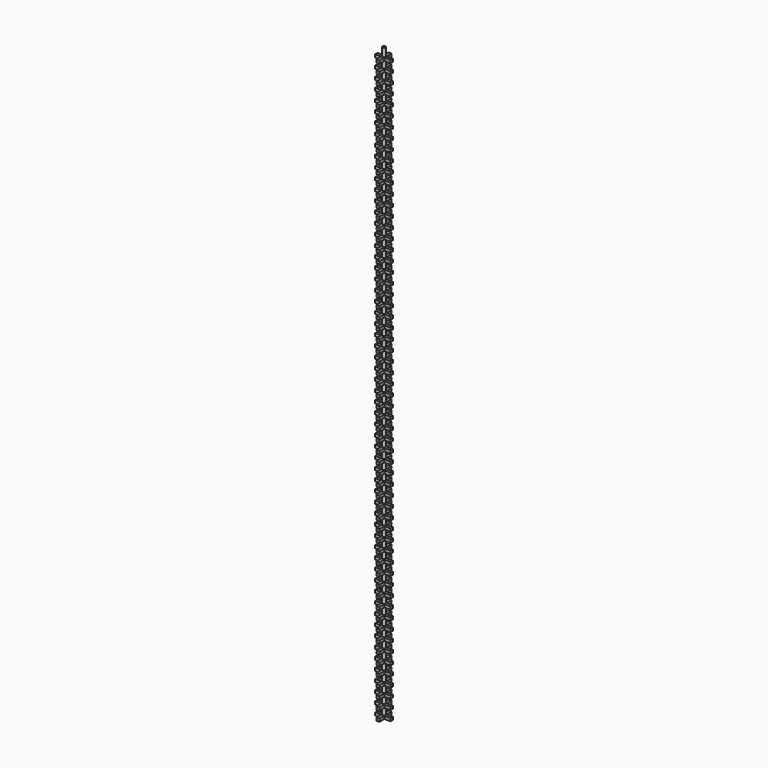
from build123d import *

# Parameters (mm, degrees)
F0_R     = 2.5
F1_DEPTH = 1000
F2_W     = 5
F2_H     = 5
F4_DEPTH = 13
F3_W     = 5
F3_H     = 5
F5_DEPTH = 13


with BuildPart() as f1:
    # F0 (on Top) → F1 (new body)
    with BuildSketch(Plane.XY):
        Circle(F0_R)
    extrude(amount=F1_DEPTH)

    # F2 (on Front) → F4 (join, symmetric)
    with BuildSketch(Plane.XZ):
        Rectangle(F2_W, F2_H)
        with Locations((0, 16.666667)):
            Rectangle(F2_W, F2_H)
        with Locations((0, 33.333333)):
            Rectangle(F2_W, F2_H)
        with Locations((0, 50)):
            Rectangle(F2_W, F2_H)
        with Locations((0, 66.666667)):
            Rectangle(F2_W, F2_H)
        with Locations((0, 83.333333)):
            Rectangle(F2_W, F2_H)
        with Locations((0, 100)):
            Rectangle(F2_W, F2_H)
        with Locations((0, 116.666667)):
            Rectangle(F2_W, F2_H)
        with Locations((0, 133.333333)):
            Rectangle(F2_W, F2_H)
        with Locations((0, 150)):
            Rectangle(F2_W, F2_H)
        with Locations((0, 166.666667)):
            Rectangle(F2_W, F2_H)
        with Locations((0, 183.333333)):
            Rectangle(F2_W, F2_H)
        with Locations((0, 200)):
            Rectangle(F2_W, F2_H)
        with Locations((0, 216.666667)):
            Rectangle(F2_W, F2_H)
        with Locations((0, 233.333333)):
            Rectangle(F2_W, F2_H)
        with Locations((0, 250)):
            Rectangle(F2_W, F2_H)
        with Locations((0, 266.666667)):
            Rectangle(F2_W, F2_H)
        with Locations((0, 283.333333)):
            Rectangle(F2_W, F2_H)
        with Locations((0, 300)):
            Rectangle(F2_W, F2_H)
        with Locations((0, 316.666667)):
            Rectangle(F2_W, F2_H)
        with Locations((0, 333.333333)):
            Rectangle(F2_W, F2_H)
        with Locations((0, 350)):
            Rectangle(F2_W, F2_H)
        with Locations((0, 366.666667)):
            Rectangle(F2_W, F2_H)
        with Locations((0, 383.333333)):
            Rectangle(F2_W, F2_H)
        with Locations((0, 400)):
            Rectangle(F2_W, F2_H)
        with Locations((0, 416.666667)):
            Rectangle(F2_W, F2_H)
        with Locations((0, 433.333333)):
            Rectangle(F2_W, F2_H)
        with Locations((0, 450)):
            Rectangle(F2_W, F2_H)
        with Locations((0, 466.666667)):
            Rectangle(F2_W, F2_H)
        with Locations((0, 483.333333)):
            Rectangle(F2_W, F2_H)
        with Locations((0, 500)):
            Rectangle(F2_W, F2_H)
        with Locations((0, 516.666667)):
            Rectangle(F2_W, F2_H)
        with Locations((0, 533.333333)):
            Rectangle(F2_W, F2_H)
        with Locations((0, 550)):
            Rectangle(F2_W, F2_H)
        with Locations((0, 566.666667)):
            Rectangle(F2_W, F2_H)
        with Locations((0, 583.333333)):
            Rectangle(F2_W, F2_H)
        with Locations((0, 600)):
            Rectangle(F2_W, F2_H)
        with Locations((0, 616.666667)):
            Rectangle(F2_W, F2_H)
        with Locations((0, 633.333333)):
            Rectangle(F2_W, F2_H)
        with Locations((0, 650)):
            Rectangle(F2_W, F2_H)
        with Locations((0, 666.666667)):
            Rectangle(F2_W, F2_H)
        with Locations((0, 683.333333)):
            Rectangle(F2_W, F2_H)
        with Locations((0, 700)):
            Rectangle(F2_W, F2_H)
        with Locations((0, 716.666667)):
            Rectangle(F2_W, F2_H)
        with Locations((0, 733.333333)):
            Rectangle(F2_W, F2_H)
        with Locations((0, 750)):
            Rectangle(F2_W, F2_H)
        with Locations((0, 766.666667)):
            Rectangle(F2_W, F2_H)
        with Locations((0, 783.333333)):
            Rectangle(F2_W, F2_H)
        with Locations((0, 800)):
            Rectangle(F2_W, F2_H)
        with Locations((0, 816.666667)):
            Rectangle(F2_W, F2_H)
        with Locations((0, 833.333333)):
            Rectangle(F2_W, F2_H)
        with Locations((0, 850)):
            Rectangle(F2_W, F2_H)
        with Locations((0, 866.666667)):
            Rectangle(F2_W, F2_H)
        with Locations((0, 883.333333)):
            Rectangle(F2_W, F2_H)
        with Locations((0, 900)):
            Rectangle(F2_W, F2_H)
        with Locations((0, 916.666667)):
            Rectangle(F2_W, F2_H)
        with Locations((0, 933.333333)):
            Rectangle(F2_W, F2_H)
        with Locations((0, 950)):
            Rectangle(F2_W, F2_H)
        with Locations((0, 966.666667)):
            Rectangle(F2_W, F2_H)
        with Locations((0, 983.333333)):
            Rectangle(F2_W, F2_H)
    extrude(amount=F4_DEPTH, both=True)

    # F3 (on Right) → F5 (join, symmetric)
    with BuildSketch(Plane.YZ):
        Rectangle(F3_W, F3_H)
        with Locations((0, 16.666667)):
            Rectangle(F3_W, F3_H)
        with Locations((0, 33.333333)):
            Rectangle(F3_W, F3_H)
        with Locations((0, 50)):
            Rectangle(F3_W, F3_H)
        with Locations((0, 66.666667)):
            Rectangle(F3_W, F3_H)
        with Locations((0, 83.333333)):
            Rectangle(F3_W, F3_H)
        with Locations((0, 100)):
            Rectangle(F3_W, F3_H)
        with Locations((0, 116.666667)):
            Rectangle(F3_W, F3_H)
        with Locations((0, 133.333333)):
            Rectangle(F3_W, F3_H)
        with Locations((0, 150)):
            Rectangle(F3_W, F3_H)
        with Locations((0, 166.666667)):
            Rectangle(F3_W, F3_H)
        with Locations((0, 183.333333)):
            Rectangle(F3_W, F3_H)
        with Locations((0, 200)):
            Rectangle(F3_W, F3_H)
        with Locations((0, 216.666667)):
            Rectangle(F3_W, F3_H)
        with Locations((0, 233.333333)):
            Rectangle(F3_W, F3_H)
        with Locations((0, 250)):
            Rectangle(F3_W, F3_H)
        with Locations((0, 266.666667)):
            Rectangle(F3_W, F3_H)
        with Locations((0, 283.333333)):
            Rectangle(F3_W, F3_H)
        with Locations((0, 300)):
            Rectangle(F3_W, F3_H)
        with Locations((0, 316.666667)):
            Rectangle(F3_W, F3_H)
        with Locations((0, 333.333333)):
            Rectangle(F3_W, F3_H)
        with Locations((0, 350)):
            Rectangle(F3_W, F3_H)
        with Locations((0, 366.666667)):
            Rectangle(F3_W, F3_H)
        with Locations((0, 383.333333)):
            Rectangle(F3_W, F3_H)
        with Locations((0, 400)):
            Rectangle(F3_W, F3_H)
        with Locations((0, 416.666667)):
            Rectangle(F3_W, F3_H)
        with Locations((0, 433.333333)):
            Rectangle(F3_W, F3_H)
        with Locations((0, 450)):
            Rectangle(F3_W, F3_H)
        with Locations((0, 466.666667)):
            Rectangle(F3_W, F3_H)
        with Locations((0, 483.333333)):
            Rectangle(F3_W, F3_H)
        with Locations((0, 500)):
            Rectangle(F3_W, F3_H)
        with Locations((0, 516.666667)):
            Rectangle(F3_W, F3_H)
        with Locations((0, 533.333333)):
            Rectangle(F3_W, F3_H)
        with Locations((0, 550)):
            Rectangle(F3_W, F3_H)
        with Locations((0, 566.666667)):
            Rectangle(F3_W, F3_H)
        with Locations((0, 583.333333)):
            Rectangle(F3_W, F3_H)
        with Locations((0, 600)):
            Rectangle(F3_W, F3_H)
        with Locations((0, 616.666667)):
            Rectangle(F3_W, F3_H)
        with Locations((0, 633.333333)):
            Rectangle(F3_W, F3_H)
        with Locations((0, 650)):
            Rectangle(F3_W, F3_H)
        with Locations((0, 666.666667)):
            Rectangle(F3_W, F3_H)
        with Locations((0, 683.333333)):
            Rectangle(F3_W, F3_H)
        with Locations((0, 700)):
            Rectangle(F3_W, F3_H)
        with Locations((0, 716.666667)):
            Rectangle(F3_W, F3_H)
        with Locations((0, 733.333333)):
            Rectangle(F3_W, F3_H)
        with Locations((0, 750)):
            Rectangle(F3_W, F3_H)
        with Locations((0, 766.666667)):
            Rectangle(F3_W, F3_H)
        with Locations((0, 783.333333)):
            Rectangle(F3_W, F3_H)
        with Locations((0, 800)):
            Rectangle(F3_W, F3_H)
        with Locations((0, 816.666667)):
            Rectangle(F3_W, F3_H)
        with Locations((0, 833.333333)):
            Rectangle(F3_W, F3_H)
        with Locations((0, 850)):
            Rectangle(F3_W, F3_H)
        with Locations((0, 866.666667)):
            Rectangle(F3_W, F3_H)
        with Locations((0, 883.333333)):
            Rectangle(F3_W, F3_H)
        with Locations((0, 900)):
            Rectangle(F3_W, F3_H)
        with Locations((0, 916.666667)):
            Rectangle(F3_W, F3_H)
        with Locations((0, 933.333333)):
            Rectangle(F3_W, F3_H)
        with Locations((0, 950)):
            Rectangle(F3_W, F3_H)
        with Locations((0, 966.666667)):
            Rectangle(F3_W, F3_H)
        with Locations((0, 983.333333)):
            Rectangle(F3_W, F3_H)
    extrude(amount=F5_DEPTH, both=True)


solid = f1.part
